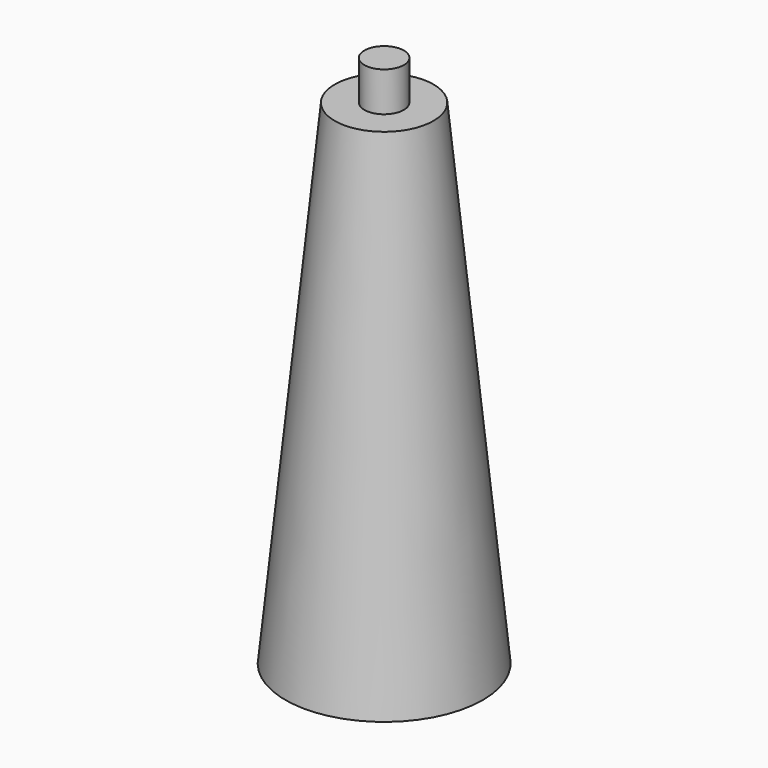
from build123d import *

# Parameters (mm, degrees)
F2_R     = 1
F3_DEPTH = 2


with BuildPart() as f1:
    # F0 (on Front) → F1 (revolve)
    with BuildSketch(Plane.XZ):
        Polygon((0, 25), (0, 0), (5, 0), (2.5, 25), align=None)
    revolve(axis=Axis((0, 0, 12.5), (0, 0, -1)))

    # F2 (on face) → F3 (join)
    with BuildSketch(Plane.XY.offset(25)):
        Circle(F2_R)
    extrude(amount=F3_DEPTH)


solid = f1.part
